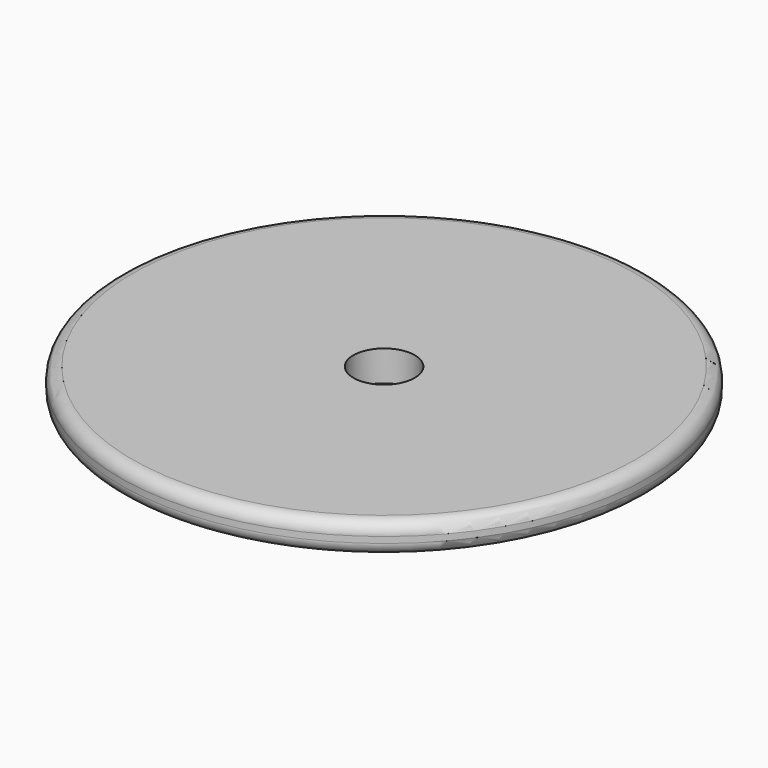
from build123d import *

# Parameters (mm, degrees)
F0_R     = 43
F1_DEPTH = 5
F2_R     = 5
F3_DEPTH = 5.001
F4_R     = 2


with BuildPart() as f1:
    # F0 (on Top) → F1 (new body)
    with BuildSketch(Plane.XY):
        Circle(F0_R)
    extrude(amount=F1_DEPTH)

    # F2 (on face) → F3 (cut, through all)
    with BuildSketch(Plane.XY.offset(5)):
        Circle(F2_R)
    extrude(amount=-F3_DEPTH, mode=Mode.SUBTRACT)

    # F4
    f4_edges = [f1.edges().sort_by_distance(p)[0] for p in [
        (-43, 0, 0),
        (-43, 0, 5),
    ]]
    fillet(f4_edges, radius=F4_R)


solid = f1.part
